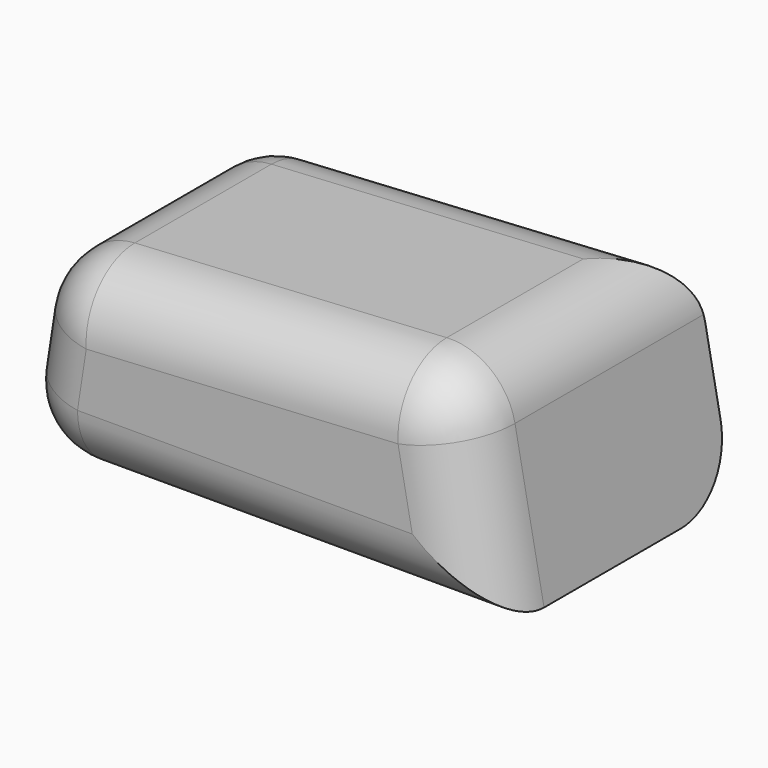
from build123d import *

# Parameters (mm, degrees)
F1_DEPTH = 46
F2_R     = 10


with BuildPart() as f1:
    # F0 (on Front) → F1 (new body)
    with BuildSketch(Plane.XZ):
        Polygon((27.880436, 45.000006), (-36.489133, 41.282613), (-40.793478, 13.108696), (33.945654, 13.108696), align=None)
    extrude(amount=F1_DEPTH)

    # F2
    f2_edges = [f1.edges().sort_by_distance(p)[0] for p in [
        (27.880436, -23, 45.000006),
        (-36.489133, -23, 41.282613),
        (-4.304348, 0, 43.141309),
        (-4.304348, -46, 43.141309),
        (-3.423912, 0, 13.108696),
        (-40.793478, -23, 13.108696),
        (-38.641306, 0, 27.195654),
        (30.913045, -46, 29.054351),
        (-38.641306, -46, 27.195654),
        (-3.423912, -46, 13.108696),
    ]]
    fillet(f2_edges, radius=F2_R)


solid = f1.part
